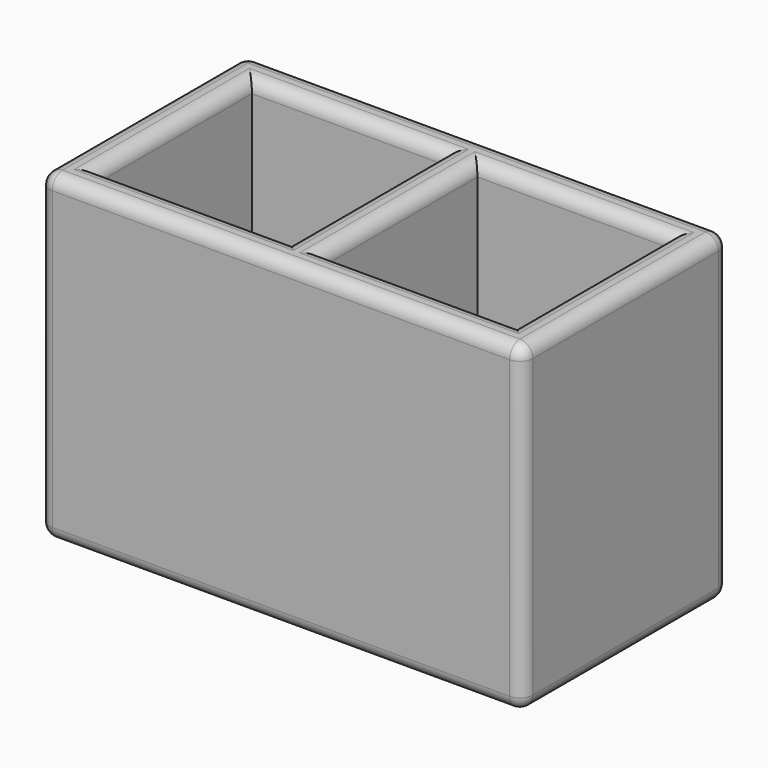
from build123d import *

# Parameters (mm, degrees)
F0_W     = 190.5
F0_H     = 101.6
F0_W_2   = 76.2
F0_H_2   = 76.2
F1_DEPTH = 127
F2_DEPTH = 6.35
F3_R     = 5.08


with BuildPart() as f1:
    # F0 (on Top) → F1 (new body)
    with BuildSketch(Plane.XY):
        Rectangle(F0_W, F0_H)
        with Locations((-44.45, 0)):
            Rectangle(F0_W_2, F0_H_2, mode=Mode.SUBTRACT)
        with Locations((44.45, 0)):
            Rectangle(F0_W_2, F0_H_2, mode=Mode.SUBTRACT)
    extrude(amount=F1_DEPTH)

    # F0 (on Top) → F2 (join)
    with BuildSketch(Plane.XY):
        with Locations((-44.45, 0)):
            Rectangle(F0_W_2, F0_H_2)
        with Locations((44.45, 0)):
            Rectangle(F0_W_2, F0_H_2)
    extrude(amount=F2_DEPTH)

    # F3
    f3_edges = [f1.edges().sort_by_distance(p)[0] for p in [
        (-95.25, 0, 127),
        (-82.55, 0, 127),
        (-44.45, 38.1, 127),
        (-6.35, 0, 127),
        (-44.45, -38.1, 127),
        (6.35, 0, 127),
        (44.45, -38.1, 127),
        (44.45, 38.1, 127),
        (82.55, 0, 127),
        (95.25, 0, 127),
        (0, -50.8, 127),
        (0, 50.8, 127),
        (95.25, -50.8, 63.5),
        (95.25, 50.8, 63.5),
        (-95.25, -50.8, 63.5),
        (-95.25, 50.8, 63.5),
        (95.25, 0, 0),
        (0, -50.8, 0),
        (0, 50.8, 0),
        (-95.25, 0, 0),
    ]]
    fillet(f3_edges, radius=F3_R)


solid = f1.part
